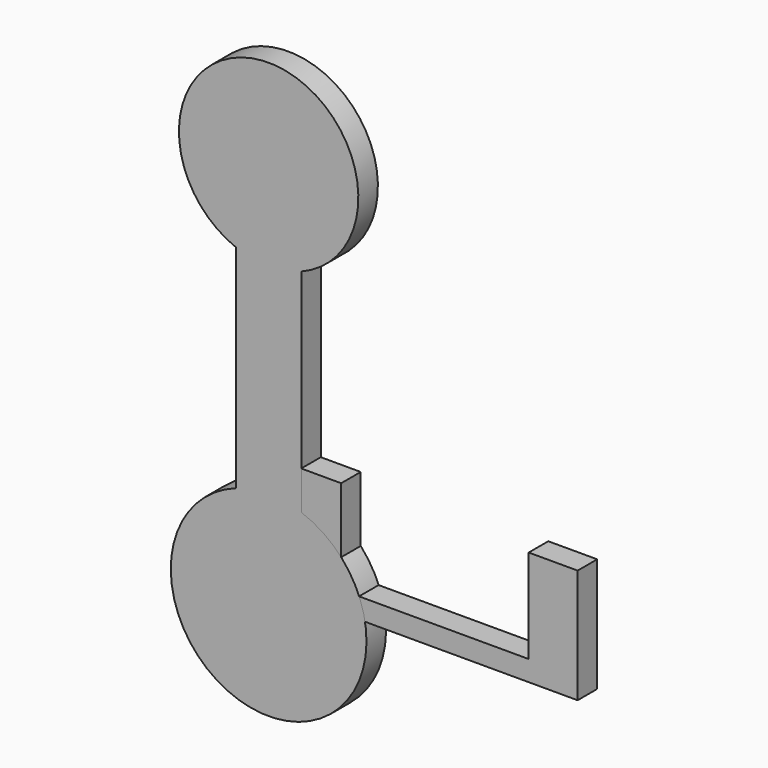
from build123d import *

# Parameters (mm, degrees)
F1_DEPTH = 3
F3_DEPTH = 3


with BuildPart() as f1:
    # F0 (on Front) → F1 (new body)
    with BuildSketch(Plane.XZ):
        Polygon((-29, -6.674529), (-29, -20.678958), (6, -20.678958), (6, -6.678958), (0, -6.678958), (0, -18.178958), (-23, -18.178958), (-23, -6.678958), align=None)
    extrude(amount=F1_DEPTH)


with BuildPart() as f3:
    # F2 (on Front) → F3 (new body)
    with BuildSketch(Plane.XZ):
        with BuildLine():
            ThreePointArc((-27.893543, 14.592959), (-31.893543, 35.83991), (-35.893543, 14.592959))
            Line((-35.893543, 14.592959), (-35.893543, -11.407041))
            ThreePointArc((-35.893543, -11.407041), (-31.893543, -34.72075), (-27.893543, -11.407041))
            Line((-27.893543, -11.407041), (-27.893543, 14.592959))
        make_face()
    extrude(amount=F3_DEPTH)


solid = Compound([f1.part, f3.part])
